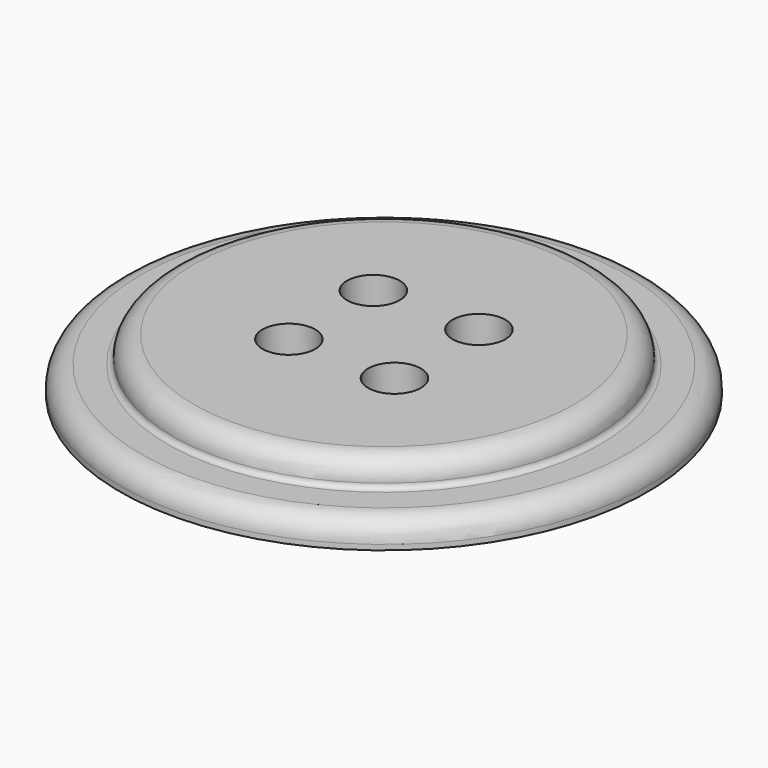
from build123d import *

# Parameters (mm, degrees)
F2_R     = 25.4
F3_DEPTH = 50.8


with BuildPart() as f1:
    # F0 (on Front) → F1 (revolve)
    with BuildSketch(Plane.XZ):
        with BuildLine():
            Line((-254, 0), (0, 0))
            Line((0, 0), (0, 50.8))
            Line((0, 50.8), (-182.88, 50.8))
            ThreePointArc((-182.88, 50.8), (-197.24841, 44.84841), (-203.2, 30.48))
            ThreePointArc((-203.2, 30.48), (-204.687898, 26.887898), (-208.28, 25.4))
            Line((-208.28, 25.4), (-233.68, 25.4))
            ThreePointArc((-233.68, 25.4), (-248.04841, 19.44841), (-254, 5.08))
            Line((-254, 5.08), (-254, 0))
        make_face()
    revolve(axis=Axis((0, 0, 25.4), (0, 0, -1)))

    # F2 (on face) → F3 (cut)
    with BuildSketch(Plane.XY.offset(50.8)):
        with Locations((-50.8, 50.8)):
            Circle(F2_R)
        with Locations((50.8, 50.8)):
            Circle(F2_R)
        with Locations((-50.8, -50.8)):
            Circle(F2_R)
        with Locations((50.8, -50.8)):
            Circle(F2_R)
    extrude(amount=-F3_DEPTH, mode=Mode.SUBTRACT)


solid = f1.part
